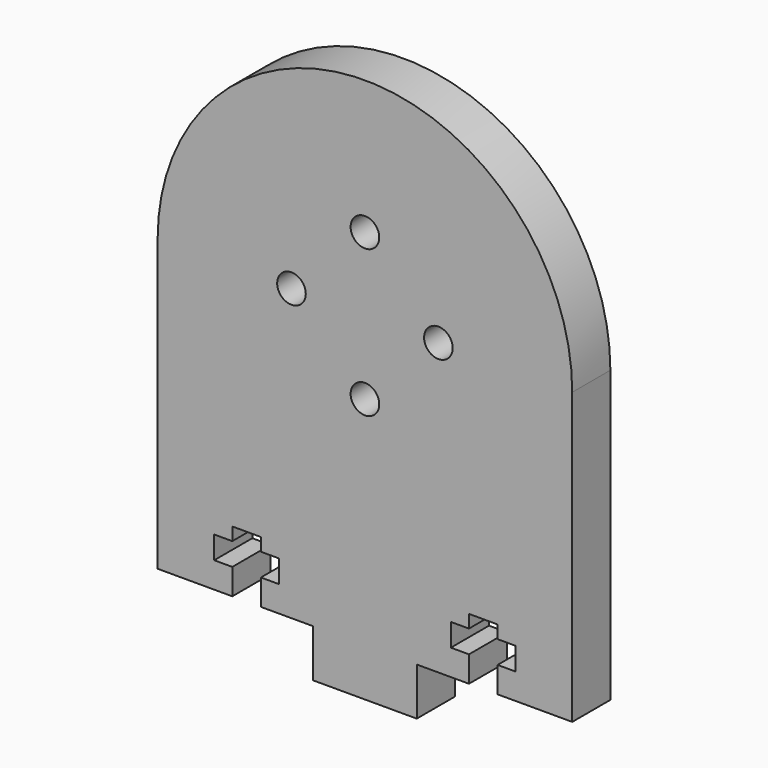
from build123d import *

# Parameters (mm, degrees)
F0_R     = 1.7526
F1_DEPTH = 5.842


with BuildPart() as f1:
    # F0 (on Front) → F1 (new body)
    with BuildSketch(Plane.XZ):
        with BuildLine():
            ThreePointArc((25.4, 0), (0, 25.4), (-25.4, 0))
            Line((-25.4, 0), (-25.4, -35.56))
            Line((-25.4, -35.56), (-16.2526, -35.56))
            Line((-16.2526, -35.56), (-16.2526, -32.385))
            Line((-16.2526, -32.385), (-18.46875, -32.385))
            Line((-18.46875, -32.385), (-18.46875, -29.606875))
            Line((-18.46875, -29.606875), (-16.2526, -29.606875))
            Line((-16.2526, -29.606875), (-16.2526, -28.019375))
            Line((-16.2526, -28.019375), (-12.7474, -28.019375))
            Line((-12.7474, -28.019375), (-12.7474, -29.606875))
            Line((-12.7474, -29.606875), (-10.53125, -29.606875))
            Line((-10.53125, -29.606875), (-10.53125, -32.385))
            Line((-10.53125, -32.385), (-12.7474, -32.385))
            Line((-12.7474, -32.385), (-12.7474, -35.56))
            Line((-12.7474, -35.56), (-6.35, -35.56))
            Line((-6.35, -35.56), (-6.35, -41.402))
            Line((-6.35, -41.402), (6.35, -41.402))
            Line((6.35, -41.402), (6.35, -35.56))
            Line((6.35, -35.56), (12.7474, -35.56))
            Line((12.7474, -35.56), (12.7474, -32.385))
            Line((12.7474, -32.385), (10.53125, -32.385))
            Line((10.53125, -32.385), (10.53125, -29.606875))
            Line((10.53125, -29.606875), (12.7474, -29.606875))
            Line((12.7474, -29.606875), (12.7474, -28.019375))
            Line((12.7474, -28.019375), (16.2526, -28.019375))
            Line((16.2526, -28.019375), (16.2526, -29.606875))
            Line((16.2526, -29.606875), (18.46875, -29.606875))
            Line((18.46875, -29.606875), (18.46875, -32.385))
            Line((18.46875, -32.385), (16.2526, -32.385))
            Line((16.2526, -32.385), (16.2526, -35.56))
            Line((16.2526, -35.56), (25.4, -35.56))
            Line((25.4, -35.56), (25.4, 0))
        make_face()
        with Locations((0, -9)):
            Circle(F0_R, mode=Mode.SUBTRACT)
        with Locations((-9, 0)):
            Circle(F0_R, mode=Mode.SUBTRACT)
        with Locations((0, 9)):
            Circle(F0_R, mode=Mode.SUBTRACT)
        with Locations((9, 0)):
            Circle(F0_R, mode=Mode.SUBTRACT)
    extrude(amount=F1_DEPTH)


solid = f1.part
